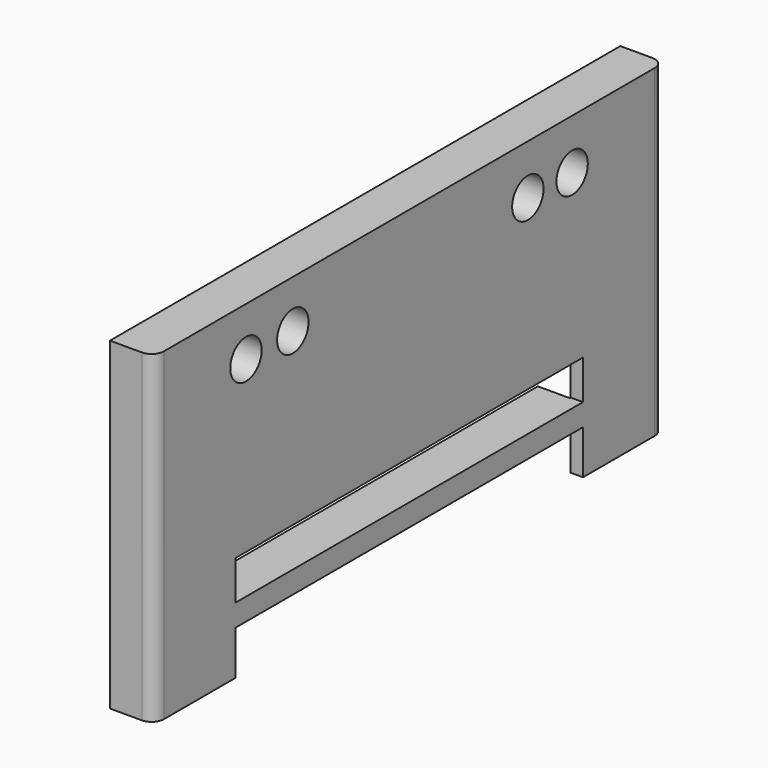
from build123d import *

# Parameters (mm, degrees)
SKETCH002_W  = 177
SKETCH002_H  = 16
SKETCH002_R  = 8
PAD002_DEPTH = 18
FILLET_R     = 5
SKETCH_W     = 18
SKETCH_H     = 70
POCKET_DEPTH = 145


with BuildPart() as part:
    # Sketch002 → Pad002 (new body)
    with BuildSketch(Plane.YZ.offset(132)):
        Polygon((-130, 10), (-130, 142), (130, 142), (130, 10), (88.5, 10), (88.5, 28), (-88.5, 28), (-88.5, 10), align=None)
        with Locations((0, 45)):
            Rectangle(SKETCH002_W, SKETCH002_H, mode=Mode.SUBTRACT)
        with Locations((-83.20224, 122.196114)):
            Circle(SKETCH002_R, mode=Mode.SUBTRACT)
        with Locations((-59.318291, 122.57251)):
            Circle(SKETCH002_R, mode=Mode.SUBTRACT)
        with Locations((60.411636, 121.713104)):
            Circle(SKETCH002_R, mode=Mode.SUBTRACT)
        with Locations((82.951927, 121.552109)):
            Circle(SKETCH002_R, mode=Mode.SUBTRACT)
    extrude(amount=PAD002_DEPTH)

    # Fillet
    fillet_edges = [part.edges().sort_by_distance(p)[0] for p in [
        (150, -130, 76),
        (150, 130, 76),
    ]]
    fillet(fillet_edges, radius=FILLET_R)

    # Sketch → Pocket (cut)
    with BuildSketch(Plane.YZ):
        with Locations((-97, 35)):
            Rectangle(SKETCH_W, SKETCH_H)
        with Locations((97, 35)):
            Rectangle(SKETCH_W, SKETCH_H)
    extrude(amount=POCKET_DEPTH, mode=Mode.SUBTRACT)


solid = part.part
